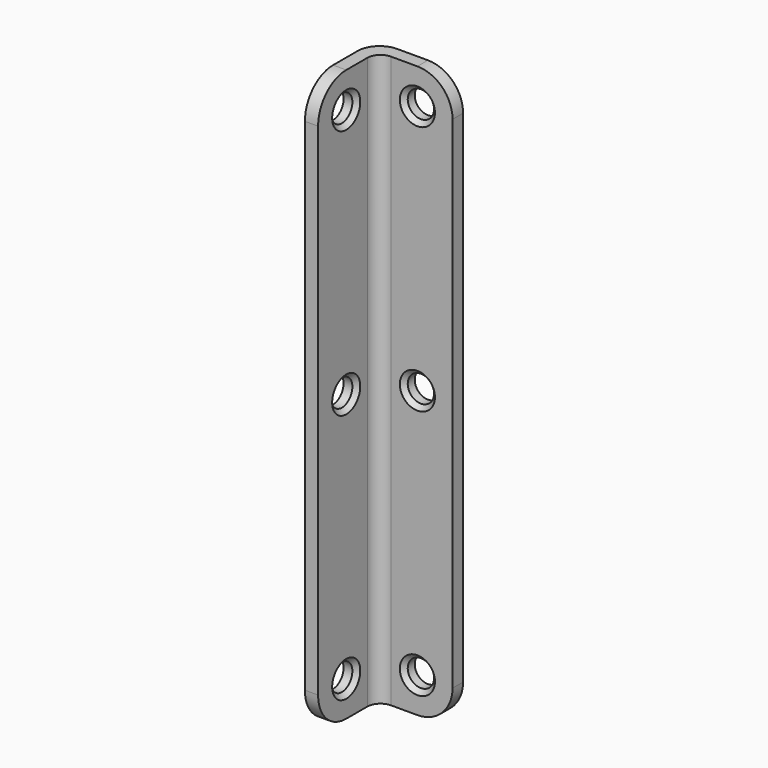
from build123d import *

# Parameters (mm, degrees)
F1_DEPTH       = 130
F2_R           = 8
F4_D           = 6
F4_CSINK_D     = 8
F4_CSINK_ANGLE = 90
F6_D           = 6
F6_CSINK_D     = 8
F6_CSINK_ANGLE = 90


with BuildPart() as f1:
    # F0 (on Top) → F1 (new body)
    with BuildSketch(Plane.XY):
        with BuildLine():
            Line((20, -3), (20, 0))
            Line((20, 0), (5, 0))
            ThreePointArc((5, 0), (1.4644660941, -1.4644660941), (0, -5))
            Line((0, -5), (0, -20))
            Line((0, -20), (3, -20))
            Line((3, -20), (3, -6))
            ThreePointArc((3, -6), (3.8786796564, -3.8786796564), (6, -3))
            Line((6, -3), (20, -3))
        make_face()
    extrude(amount=F1_DEPTH)

    # F2
    f2_edges = [f1.edges().sort_by_distance(p)[0] for p in [
        (20, -1.5, 130),
        (20, -1.5, 0),
        (1.5, -20, 0),
        (1.5, -20, 130),
    ]]
    fillet(f2_edges, radius=F2_R)

    # F4 (through all)
    with Locations(Plane.XZ.offset(3)):
        with Locations((12, 122), (12, 65), (12, 8)):
            CounterSinkHole(F4_D / 2, F4_CSINK_D / 2, counter_sink_angle=F4_CSINK_ANGLE)

    # F6 (through all)
    with Locations(Plane.YZ.offset(3)):
        with Locations((-12, 122), (-12, 65), (-12, 8)):
            CounterSinkHole(F6_D / 2, F6_CSINK_D / 2, counter_sink_angle=F6_CSINK_ANGLE)


solid = f1.part
